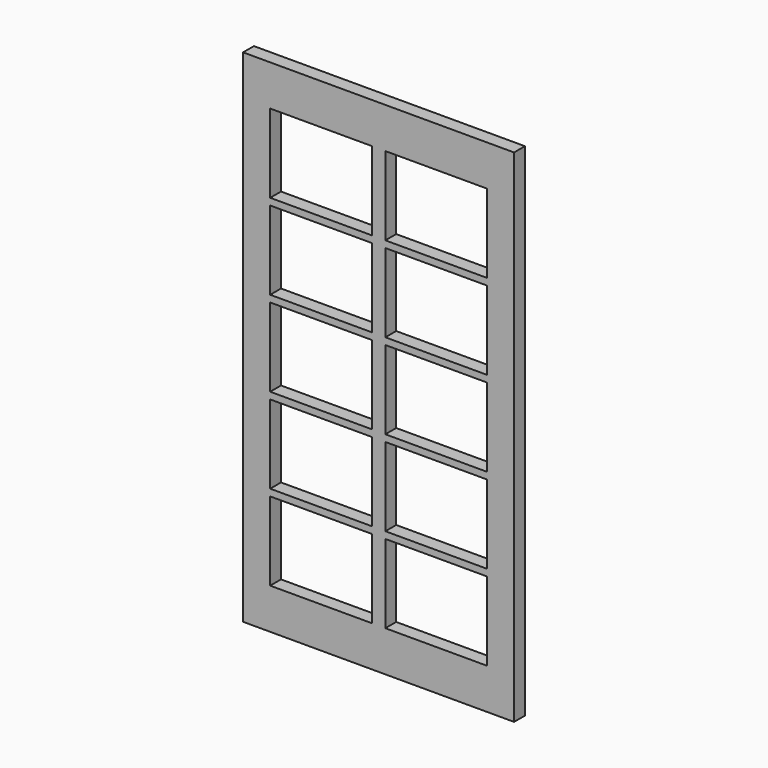
from build123d import *

# Parameters (mm, degrees)
F0_W     = 1016
F0_H     = 1879.6
F1_DEPTH = 50.8
F2_W     = 381
F2_H     = 294.64
F3_DEPTH = 50.801


with BuildPart() as f1:
    # F0 (on Front) → F1 (new body)
    with BuildSketch(Plane.XZ):
        Rectangle(F0_W, F0_H)
    extrude(amount=F1_DEPTH)

    # F2 (on face) → F3 (cut, through all)
    with BuildSketch(Plane.XZ.offset(50.8)):
        with Locations((-215.9, 640.08)):
            Rectangle(F2_W, F2_H)
        with Locations((-215.9, 320.04)):
            Rectangle(F2_W, F2_H)
        with Locations((-215.9, 0)):
            Rectangle(F2_W, F2_H)
        with Locations((-215.9, -320.04)):
            Rectangle(F2_W, F2_H)
        with Locations((-215.9, -640.08)):
            Rectangle(F2_W, F2_H)
        with Locations((215.9, 320.04)):
            Rectangle(F2_W, F2_H)
        with Locations((215.9, 640.08)):
            Rectangle(F2_W, F2_H)
        with Locations((215.9, 0)):
            Rectangle(F2_W, F2_H)
        with Locations((215.9, -320.04)):
            Rectangle(F2_W, F2_H)
        with Locations((215.9, -640.08)):
            Rectangle(F2_W, F2_H)
    extrude(amount=-F3_DEPTH, mode=Mode.SUBTRACT)


solid = f1.part
